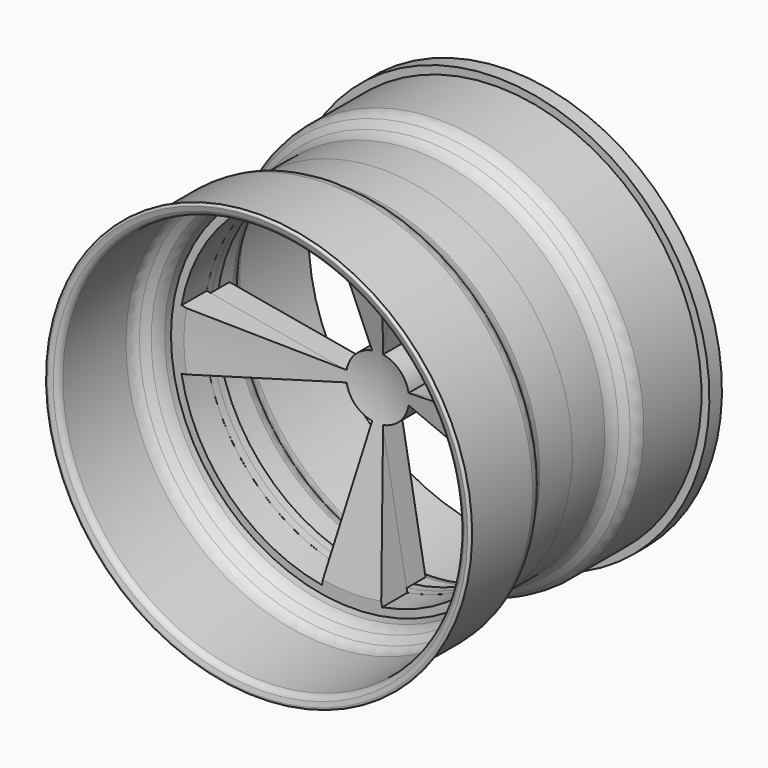
from build123d import *

# Parameters (mm, degrees)
F2_R      = 12.7
F3_R      = 5.08
F6_R      = 12.7
F7_R      = 146.05
F8_DEPTH  = 25.4
F10_DEPTH = 19.05


with BuildPart() as f1:
    # F0 (on Right) → F1 (revolve)
    with BuildSketch(Plane.YZ):
        with BuildLine():
            ThreePointArc((-123.933186, 170.273375), (-125.877468, 171.395907), (-127, 169.451625))
            Line((-127, 169.451625), (-124.983247, 161.925))
            Line((-124.983247, 161.925), (-52.115128, 161.925))
            Line((-52.115128, 161.925), (-39.415128, 149.225))
            Line((-39.415128, 149.225), (-6.35, 149.225))
            Line((-6.35, 149.225), (-6.35, 139.7))
            Line((-6.35, 139.7), (0, 139.7))
            Line((0, 139.7), (0, 152.4))
            Line((0, 152.4), (-38.1, 152.4))
            Line((-38.1, 152.4), (-50.8, 165.1))
            Line((-50.8, 165.1), (-122.546984, 165.1))
            Line((-122.546984, 165.1), (-123.933186, 170.273375))
        make_face()
    revolve(axis=Axis((0, -88.156998, 0), (0, -1, 0)))

    # F2
    f2_edges = [f1.edges().sort_by_distance(p)[0] for p in [
        (0, -50.8, -165.1),
        (0, -38.1, -152.4),
        (0, -39.415128, -149.225),
        (0, -52.115128, -161.925),
    ]]
    fillet(f2_edges, radius=F2_R)

    # F3
    f3_edges = [f1.edges().sort_by_distance(p)[0] for p in [
        (0, -122.546984, -165.1),
        (0, -124.983247, -161.925),
    ]]
    fillet(f3_edges, radius=F3_R)


with BuildPart() as f5:
    # F4 (on Right) → F5 (revolve)
    with BuildSketch(Plane.YZ):
        Polygon((0, 152.4), (0, 139.7), (6.35, 139.7), (6.35, 149.225), (39.415128, 149.225), (52.115128, 161.925), (127, 161.925), (127, 171.45), (114.3, 171.45), (114.3, 165.1), (50.8, 165.1), (38.1, 152.4), align=None)
    revolve(axis=Axis((0, 91.09965, 0), (0, 1, 0)))

    # F6
    f6_edges = [f5.edges().sort_by_distance(p)[0] for p in [
        (0, 39.415128, -149.225),
        (0, 52.115128, -161.925),
        (0, 50.8, -165.1),
        (0, 38.1, -152.4),
    ]]
    fillet(f6_edges, radius=F6_R)


with BuildPart() as f8:
    # F7 (on face) → F8 (new body)
    with BuildSketch(Plane.XZ.offset(6.35)):
        Circle(F7_R)
        with BuildLine():
            ThreePointArc((-137.577643, 24.25865), (-98.782817, 98.782817), (-24.25865, 137.577643))
            ThreePointArc((-24.25865, 137.577643), (0, 139.7), (24.25865, 137.577643))
            ThreePointArc((24.25865, 137.577643), (98.782817, 98.782817), (137.577643, 24.25865))
            ThreePointArc((137.577643, 24.25865), (139.168399, 12.175657), (139.7, 0))
            ThreePointArc((139.7, 0), (139.168399, -12.175657), (137.577643, -24.25865))
            ThreePointArc((137.577643, -24.25865), (98.782817, -98.782817), (24.25865, -137.577643))
            ThreePointArc((24.25865, -137.577643), (0, -139.7), (-24.25865, -137.577643))
            ThreePointArc((-24.25865, -137.577643), (-98.782817, -98.782817), (-137.577643, -24.25865))
            ThreePointArc((-137.577643, -24.25865), (-139.7, 0), (-137.577643, 24.25865))
        make_face(mode=Mode.SUBTRACT)
        with BuildLine():
            ThreePointArc((24.25865, 137.577643), (0, 139.7), (-24.25865, 137.577643))
            Line((-24.25865, 137.577643), (-4.410664, 25.014117))
            ThreePointArc((-4.410664, 25.014117), (-17.960512, 17.960512), (-25.014117, 4.410664))
            Line((-25.014117, 4.410664), (-137.577643, 24.25865))
            ThreePointArc((-137.577643, 24.25865), (-139.7, 0), (-137.577643, -24.25865))
            Line((-137.577643, -24.25865), (-25.014117, -4.410664))
            ThreePointArc((-25.014117, -4.410664), (-17.960512, -17.960512), (-4.410664, -25.014117))
            Line((-4.410664, -25.014117), (-24.25865, -137.577643))
            ThreePointArc((-24.25865, -137.577643), (0, -139.7), (24.25865, -137.577643))
            Line((24.25865, -137.577643), (4.410664, -25.014117))
            ThreePointArc((4.410664, -25.014117), (17.960512, -17.960512), (25.014117, -4.410664))
            Line((25.014117, -4.410664), (137.577643, -24.25865))
            ThreePointArc((137.577643, -24.25865), (139.168399, -12.175657), (139.7, 0))
            ThreePointArc((139.7, 0), (139.168399, 12.175657), (137.577643, 24.25865))
            Line((137.577643, 24.25865), (25.014117, 4.410664))
            ThreePointArc((25.014117, 4.410664), (17.960512, 17.960512), (4.410664, 25.014117))
            Line((4.410664, 25.014117), (24.25865, 137.577643))
        make_face()
    extrude(amount=F8_DEPTH)

    # F9 (on face) → F10 (join)
    with BuildSketch(Plane(origin=(0, -6.35, 0), x_dir=(-1, 0, 0), z_dir=(0, 1, 0))):
        with BuildLine():
            Line((4.410664, 25.014117), (23.707317, 134.450878))
            ThreePointArc((23.707317, 134.450878), (0, 136.525), (-23.707317, 134.450878))
            Line((-23.707317, 134.450878), (-4.410664, 25.014117))
            ThreePointArc((-4.410664, 25.014117), (-17.960512, 17.960512), (-25.014117, 4.410664))
            Line((-25.014117, 4.410664), (-134.450878, 23.707317))
            ThreePointArc((-134.450878, 23.707317), (-136.525, 0), (-134.450878, -23.707317))
            Line((-134.450878, -23.707317), (-25.014117, -4.410664))
            ThreePointArc((-25.014117, -4.410664), (-17.960512, -17.960512), (-4.410664, -25.014117))
            Line((-4.410664, -25.014117), (-23.707317, -134.450878))
            ThreePointArc((-23.707317, -134.450878), (0, -136.525), (23.707317, -134.450878))
            Line((23.707317, -134.450878), (4.410664, -25.014117))
            ThreePointArc((4.410664, -25.014117), (17.960512, -17.960512), (25.014117, -4.410664))
            Line((25.014117, -4.410664), (134.450878, -23.707317))
            ThreePointArc((134.450878, -23.707317), (136.525, 0), (134.450878, 23.707317))
            Line((134.450878, 23.707317), (25.014117, 4.410664))
            ThreePointArc((25.014117, 4.410664), (17.960512, 17.960512), (4.410664, 25.014117))
        make_face()
    extrude(amount=F10_DEPTH)

    # F11 (on Right) → F12 (revolve, cut)
    with BuildSketch(Plane.YZ):
        Polygon((-31.75, 0), (0, 0), (-31.75, 135.588631), align=None)
    revolve(axis=Axis((0, -15.875, 0), (0, -1, 0)), mode=Mode.SUBTRACT)


solid = Compound([f1.part, f5.part, f8.part])
